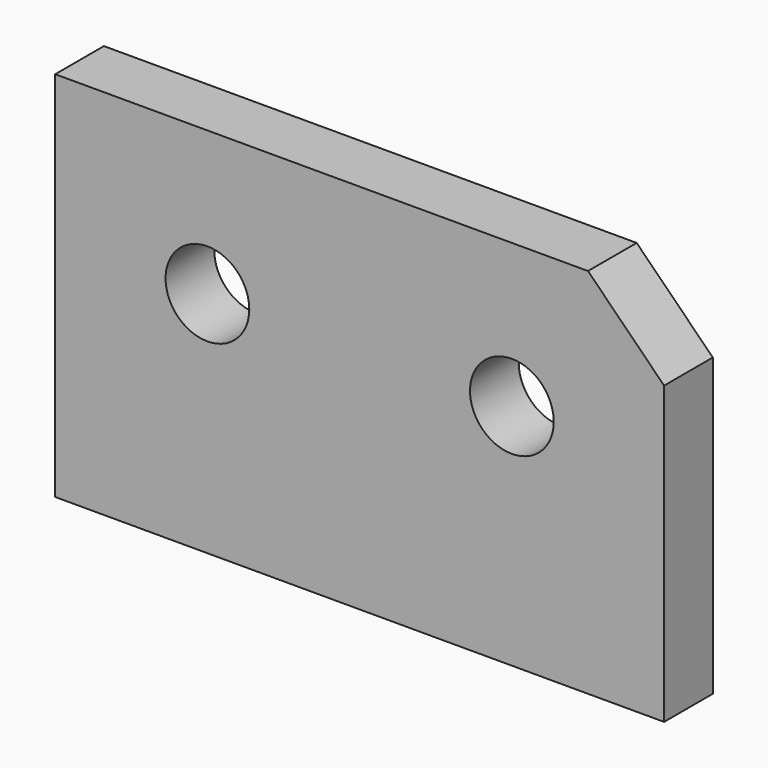
from build123d import *

# Parameters (mm, degrees)
F0_W     = 80
F0_H     = 48.9
F0_R     = 5.5
F1_DEPTH = 8
F2_SIZE  = 10


with BuildPart() as f1:
    # F0 (on Front) → F1 (new body)
    with BuildSketch(Plane.XZ):
        Rectangle(F0_W, F0_H)
        with Locations((-20, 5.55)):
            Circle(F0_R, mode=Mode.SUBTRACT)
        with Locations((20, 5.55)):
            Circle(F0_R, mode=Mode.SUBTRACT)
    extrude(amount=F1_DEPTH)

    # F2
    f2_edges = [f1.edges().sort_by_distance(p)[0] for p in [
        (40, -4, 24.45),
    ]]
    chamfer(f2_edges, length=F2_SIZE)


solid = f1.part
